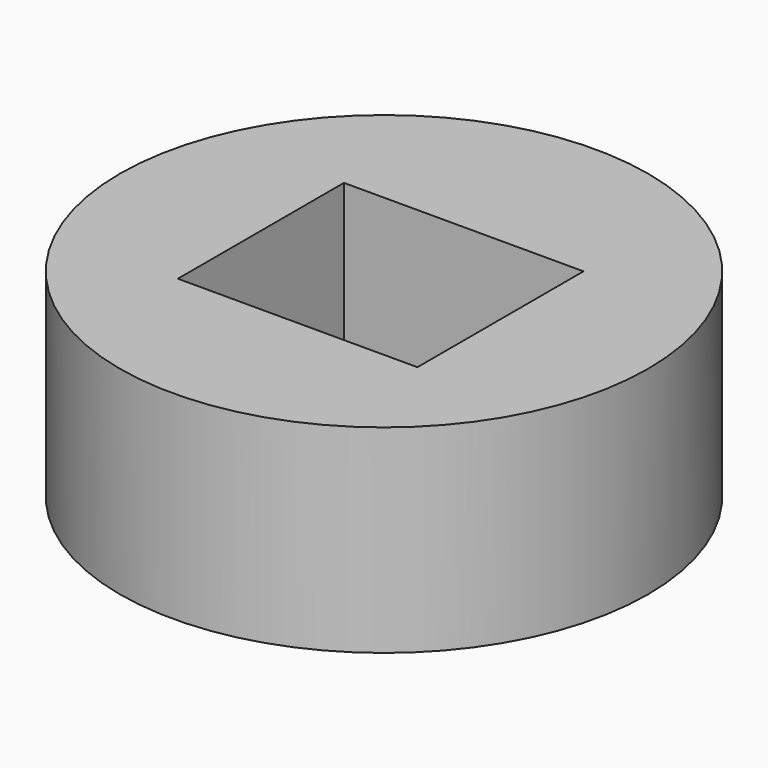
from build123d import *

# Parameters (mm, degrees)
F0_R     = 75.334777
F1_DEPTH = 56.642
F2_W     = 68.327524
F2_H     = 59.217191
F3_DEPTH = 82.042


with BuildPart() as f1:
    # F0 (on Top) → F1 (new body)
    with BuildSketch(Plane.XY):
        Circle(F0_R)
    extrude(amount=F1_DEPTH)

    # F2 (on face) → F3 (cut)
    with BuildSketch(Plane.XY.offset(56.642)):
        with Locations((0.569403, -1.897981)):
            Rectangle(F2_W, F2_H)
    extrude(amount=-F3_DEPTH, mode=Mode.SUBTRACT)


solid = f1.part
